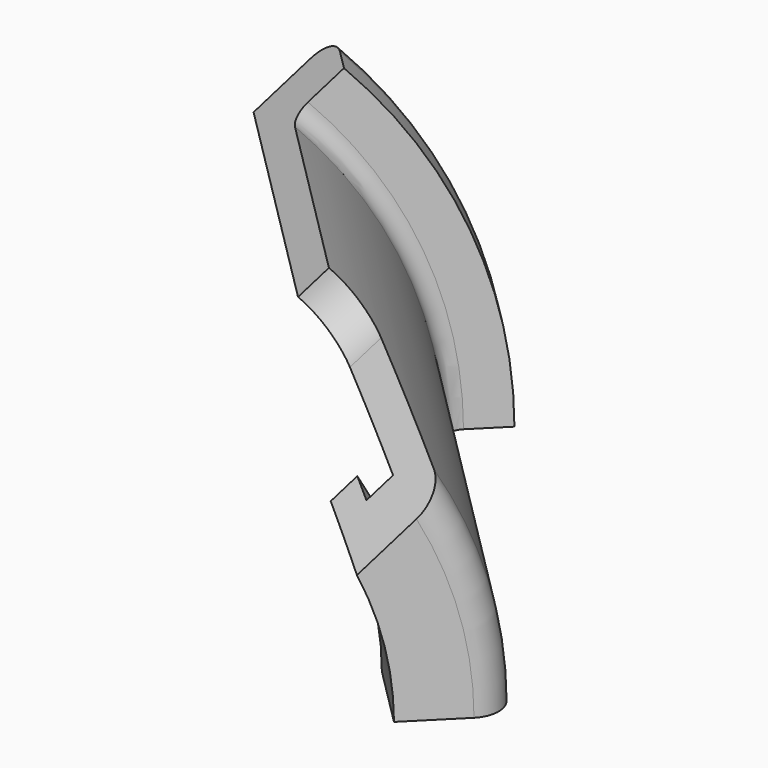
from build123d import *

# Parameters (mm, degrees)
BOX007_W               = 100
BOX007_H               = 100
BOX007_DEPTH           = 100
BOX006_W               = 100
BOX006_H               = 100
BOX006_DEPTH           = 100
BOX006_PLACEMENT_ANGLE = 90
BOX005_W               = 200
BOX005_H               = 200
BOX005_DEPTH           = 100
BOX004_W               = 20
BOX004_H               = 20
BOX004_DEPTH           = 80
BOX003_W               = 20
BOX003_H               = 20
BOX003_DEPTH           = 80
BOX002_W               = 10
BOX002_H               = 25
BOX002_DEPTH           = 35
BOX002_PITCH_ANGLE     = -15
BOX001_W               = 10
BOX001_H               = 25
BOX001_DEPTH           = 35
BOX001_PITCH_ANGLE     = 15
BOX_W                  = 20
BOX_H                  = 25
BOX_DEPTH              = 35
CYLINDER005_R          = 10
CYLINDER005_DEPTH      = 180
CYLINDER005_ROLL_ANGLE = 90
CYLINDER004_R          = 54
CYLINDER004_DEPTH      = 100
CYLINDER003_R          = 59
CYLINDER003_DEPTH      = 10
CYLINDER002_R          = 64
CYLINDER002_DEPTH      = 85
CYLINDER001_R          = 70
CYLINDER001_DEPTH      = 90
CYLINDER_R             = 80
CYLINDER_DEPTH         = 10
FILLET_R               = 3
FILLET001_R            = 5
FILLET002_R            = 5
CUT007_ROLL_ANGLE      = 90
CUT007_PITCH_ANGLE     = 45
CUT007_PLACEMENT_ANGLE = 45
CUT008_ROLL_ANGLE      = -90
CUT008_PITCH_ANGLE     = -45
CUT008_PLACEMENT_ANGLE = 45
CUT010_ROLL_ANGLE      = 90
CUT010_PITCH_ANGLE     = 45
CUT010_PLACEMENT_ANGLE = 45


with BuildPart() as cube004:
    # Box007 → Box007 (new body)
    with BuildSketch(Plane(origin=(0, 0, 0), x_dir=(-1, 0, 0), z_dir=(0, 0, 1))):
        with Locations((50, 50)):
            Rectangle(BOX007_W, BOX007_H)
    extrude(amount=BOX007_DEPTH)


with BuildPart() as cube003:
    # Box006 → Box006 (new body)
    with BuildSketch(Plane.XY):
        with Locations((50, 50)):
            Rectangle(BOX006_W, BOX006_H)
    extrude(amount=BOX006_DEPTH)


with BuildPart() as cube003_1:
    # Box006 placement: moved
    add(cube003.part.rotate(Axis((0, 0, 0), (0, 0, 1)), BOX006_PLACEMENT_ANGLE))


with BuildPart() as cube002:
    # Box005 → Box005 (new body)
    with BuildSketch(Plane(origin=(-70, -120, -100), x_dir=(1, 0, 0), z_dir=(0, 0, 1))):
        with Locations((100, 100)):
            Rectangle(BOX005_W, BOX005_H)
    extrude(amount=BOX005_DEPTH)


with BuildPart() as tab_cut_l:
    # Box004 → Box004 (new body)
    with BuildSketch(Plane(origin=(-83, -10, 20), x_dir=(1, 0, 0), z_dir=(0, 0, 1))):
        with Locations((10, 10)):
            Rectangle(BOX004_W, BOX004_H)
    extrude(amount=BOX004_DEPTH)


with BuildPart() as tab_cut_r:
    # Box003 → Box003 (new body)
    with BuildSketch(Plane(origin=(63, -10, 20), x_dir=(1, 0, 0), z_dir=(0, 0, 1))):
        with Locations((10, 10)):
            Rectangle(BOX003_W, BOX003_H)
    extrude(amount=BOX003_DEPTH)


with BuildPart() as cube001:
    # Box002 → Box002 (new body)
    with BuildSketch(Plane.XY):
        with Locations((5, 12.5)):
            Rectangle(BOX002_W, BOX002_H)
    extrude(amount=BOX002_DEPTH)


with BuildPart() as cube001_1:
    # Box002 pitch: moved
    add(cube001.part.rotate(Axis((0, 0, 0), (0, 1, 0)), BOX002_PITCH_ANGLE))


with BuildPart() as cube001_2:
    # Box002 placement: moved
    add(cube001_1.part.moved(Location((-9.95, 48, 64))))


with BuildPart() as cube:
    # Box001 → Box001 (new body)
    with BuildSketch(Plane.XY):
        with Locations((5, 12.5)):
            Rectangle(BOX001_W, BOX001_H)
    extrude(amount=BOX001_DEPTH)


with BuildPart() as cube_1:
    # Box001 pitch: moved
    add(cube.part.rotate(Axis((0, 0, 0), (0, 1, 0)), BOX001_PITCH_ANGLE))


with BuildPart() as cube_2:
    # Box001 placement: moved
    add(cube_1.part.moved(Location((0, 48, 65))))


with BuildPart() as bearing_slot:
    # Box → Box (new body)
    with BuildSketch(Plane(origin=(-10, 48, 65), x_dir=(1, 0, 0), z_dir=(0, 0, 1))):
        with Locations((10, 12.5)):
            Rectangle(BOX_W, BOX_H)
    extrude(amount=BOX_DEPTH)


with BuildPart() as bearing_holes:
    # Cylinder005 → Cylinder005 (new body)
    with BuildSketch(Plane.XY):
        Circle(CYLINDER005_R)
    extrude(amount=CYLINDER005_DEPTH)


with BuildPart() as bearing_holes_1:
    # Cylinder005 roll: moved
    add(bearing_holes.part.rotate(Axis((0, 0, 0), (1, 0, 0)), CYLINDER005_ROLL_ANGLE))


with BuildPart() as bearing_holes_2:
    # Cylinder005 placement: moved
    add(bearing_holes_1.part.moved(Location((0, 90, 65))))


with BuildPart() as through_hole:
    # Cylinder004 → Cylinder004 (new body)
    with BuildSketch(Plane.XY):
        Circle(CYLINDER004_R)
    extrude(amount=CYLINDER004_DEPTH)


with BuildPart() as inner_lip:
    # Cylinder003 → Cylinder003 (new body)
    with BuildSketch(Plane.XY.offset(80)):
        Circle(CYLINDER003_R)
    extrude(amount=CYLINDER003_DEPTH)


with BuildPart() as inner_hole:
    # Cylinder002 → Cylinder002 (new body)
    with BuildSketch(Plane.XY):
        Circle(CYLINDER002_R)
    extrude(amount=CYLINDER002_DEPTH)


with BuildPart() as body_cylinder:
    # Cylinder001 → Cylinder001 (new body)
    with BuildSketch(Plane.XY.offset(5)):
        Circle(CYLINDER001_R)
    extrude(amount=CYLINDER001_DEPTH)


with BuildPart() as cut010:
    # Cylinder → Cylinder (new body)
    with BuildSketch(Plane.XY):
        Circle(CYLINDER_R)
    extrude(amount=CYLINDER_DEPTH)

    # Fusion: union Body_Cylinder
    add(body_cylinder.part)

    # Cut: cut Inner_Hole
    add(inner_hole.part, mode=Mode.SUBTRACT)

    # Fusion001: union Inner_Lip
    add(inner_lip.part)

    # Cut001: cut Through_Hole
    add(through_hole.part, mode=Mode.SUBTRACT)

    # Fillet
    fillet_edges = [cut010.edges().sort_by_distance(p)[0] for p in [
        (-70, 0, 10),
    ]]
    fillet(fillet_edges, radius=FILLET_R)

    # Fillet001
    fillet001_edges = [cut010.edges().sort_by_distance(p)[0] for p in [
        (-80, 0, 0),
    ]]
    fillet(fillet001_edges, radius=FILLET001_R)

    # Fillet002
    fillet002_edges = [cut010.edges().sort_by_distance(p)[0] for p in [
        (-70, 0, 95),
    ]]
    fillet(fillet002_edges, radius=FILLET002_R)

    # Cut002: cut Bearing_Holes
    add(bearing_holes_2.part, mode=Mode.SUBTRACT)

    # Cut003: cut Bearing_Slot
    add(bearing_slot.part, mode=Mode.SUBTRACT)

    # Cut004: cut Cube
    add(cube_2.part, mode=Mode.SUBTRACT)

    # Cut005: cut Cube001
    add(cube001_2.part, mode=Mode.SUBTRACT)

    # Cut006: cut Tab_Cut_R
    add(tab_cut_r.part, mode=Mode.SUBTRACT)

    # Cut007: cut Tab_Cut_L
    add(tab_cut_l.part, mode=Mode.SUBTRACT)


with BuildPart() as cut010_1:
    # Cut007 roll: moved
    add(cut010.part.rotate(Axis((0, 0, 0), (1, 0, 0)), CUT007_ROLL_ANGLE))


with BuildPart() as cut010_2:
    # Cut007 pitch: moved
    add(cut010_1.part.rotate(Axis((0, 0, 0), (0, 1, 0)), CUT007_PITCH_ANGLE))


with BuildPart() as cut010_3:
    # Cut007 placement: moved
    add(cut010_2.part.rotate(Axis((0, 0, 0), (0, 0, 1)), CUT007_PLACEMENT_ANGLE))

    # Cut008: cut Cube002
    add(cube002.part, mode=Mode.SUBTRACT)


with BuildPart() as cut010_4:
    # Cut008 roll: moved
    add(cut010_3.part.rotate(Axis((0, 0, 0), (1, 0, 0)), CUT008_ROLL_ANGLE))


with BuildPart() as cut010_5:
    # Cut008 pitch: moved
    add(cut010_4.part.rotate(Axis((0, 0, 0), (0, 1, 0)), CUT008_PITCH_ANGLE))


with BuildPart() as cut010_6:
    # Cut008 placement: moved
    add(cut010_5.part.rotate(Axis((0, 0, 0), (0, 0, 1)), CUT008_PLACEMENT_ANGLE))

    # Cut009: cut Cube003
    add(cube003_1.part, mode=Mode.SUBTRACT)

    # Cut010: cut Cube004
    add(cube004.part, mode=Mode.SUBTRACT)


with BuildPart() as cut010_7:
    # Cut010 roll: moved
    add(cut010_6.part.rotate(Axis((0, 0, 0), (1, 0, 0)), CUT010_ROLL_ANGLE))


with BuildPart() as cut010_8:
    # Cut010 pitch: moved
    add(cut010_7.part.rotate(Axis((0, 0, 0), (0, 1, 0)), CUT010_PITCH_ANGLE))


with BuildPart() as cut010_9:
    # Cut010 placement: moved
    add(cut010_8.part.rotate(Axis((0, 0, 0), (0, 0, 1)), CUT010_PLACEMENT_ANGLE))


solid = cut010_9.part
